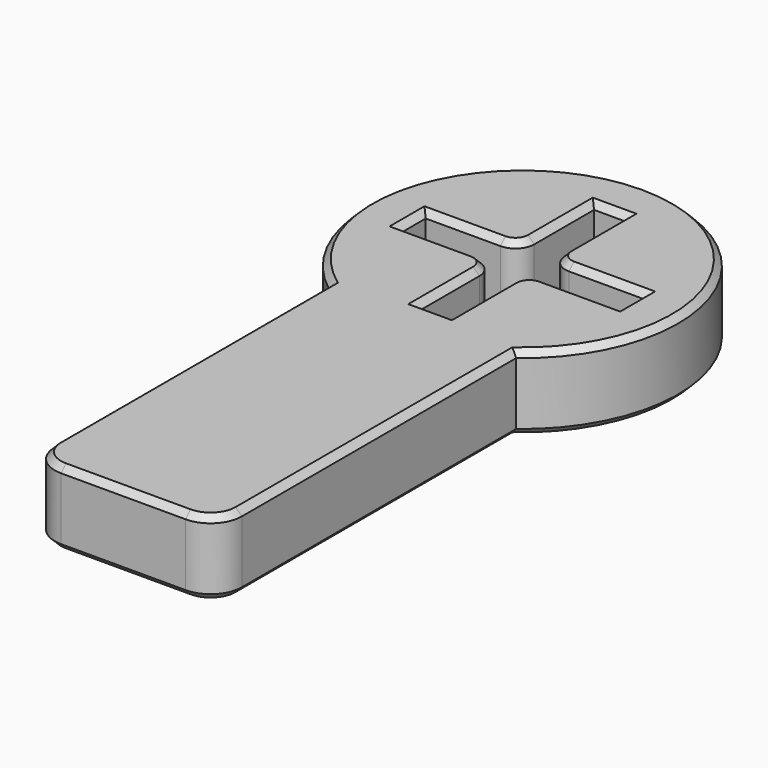
from build123d import *

# Parameters (mm, degrees)
PAD_DEPTH    = 12
FILLET_R     = 5
FILLET001_R  = 3
CHAMFER_SIZE = 1


with BuildPart() as part:
    # Sketch → Pad (new body)
    with BuildSketch(Plane.XY):
        with BuildLine():
            ThreePointArc((15, -20), (0, 25), (-15, -20))
            Line((-15, -20), (-15, -80))
            Line((-15, -80), (15, -80))
            Line((15, -80), (15, -20))
        make_face()
        Polygon((-17.5, 2.5), (-2.5, 2.5), (-2.5, 17.5), (2.5, 17.5), (2.5, 2.5), (17.5, 2.5), (17.5, -2.5), (2.5, -2.5), (2.5, -17.5), (-2.5, -17.5), (-2.5, -2.5), (-17.5, -2.5), align=None, mode=Mode.SUBTRACT)
    extrude(amount=PAD_DEPTH)

    # Fillet
    fillet_edges = [part.edges().sort_by_distance(p)[0] for p in [
        (-15, -80, 6),
        (15, -80, 6),
    ]]
    fillet(fillet_edges, radius=FILLET_R)

    # Fillet001
    fillet001_edges = [part.edges().sort_by_distance(p)[0] for p in [
        (-2.5, 2.5, 6),
        (2.5, 2.5, 6),
        (2.5, -2.5, 6),
        (-2.5, -2.5, 6),
    ]]
    fillet(fillet001_edges, radius=FILLET001_R)

    # Chamfer
    chamfer_edges = [part.edges().sort_by_distance(p)[0] for p in [
        (-11.5, 2.5, 0),
        (-3.37868, 3.37868, 0),
        (-17.5, 0, 0),
        (-2.5, 11.5, 0),
        (-11.5, -2.5, 0),
        (0, 17.5, 0),
        (-3.37868, -3.37868, 0),
        (2.5, 11.5, 0),
        (-2.5, -11.5, 0),
        (3.37868, 3.37868, 0),
        (0, -17.5, 0),
        (11.5, 2.5, 0),
        (2.5, -11.5, 0),
        (17.5, 0, 0),
        (3.37868, -3.37868, 0),
        (11.5, -2.5, 0),
        (-15, -47.5, 0),
        (-13.535534, -78.535534, 0),
        (0, 25, 0),
        (0, -80, 0),
        (15, -47.5, 0),
        (13.535534, -78.535534, 0),
        (-11.5, 2.5, 12),
        (-3.37868, 3.37868, 12),
        (-17.5, 0, 12),
        (-2.5, 11.5, 12),
        (-11.5, -2.5, 12),
        (0, 17.5, 12),
        (-3.37868, -3.37868, 12),
        (2.5, 11.5, 12),
        (-2.5, -11.5, 12),
        (3.37868, 3.37868, 12),
        (0, -17.5, 12),
        (11.5, 2.5, 12),
        (2.5, -11.5, 12),
        (17.5, 0, 12),
        (3.37868, -3.37868, 12),
        (11.5, -2.5, 12),
        (-15, -47.5, 12),
        (-13.535534, -78.535534, 12),
        (0, 25, 12),
        (0, -80, 12),
        (15, -47.5, 12),
        (13.535534, -78.535534, 12),
    ]]
    chamfer(chamfer_edges, length=CHAMFER_SIZE)


solid = part.part
